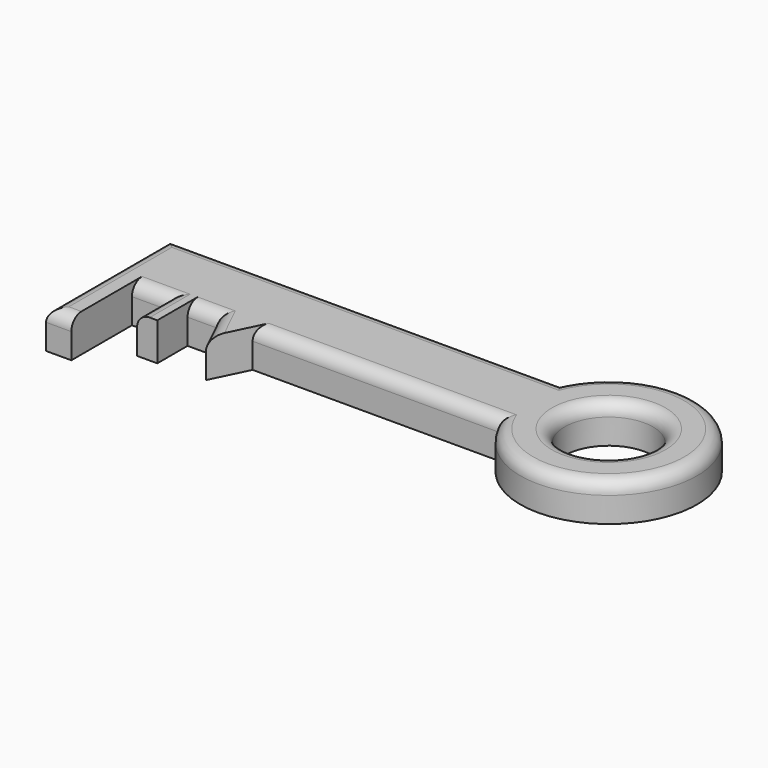
from build123d import *

# Parameters (mm, degrees)
F0_R     = 17.5
F0_W     = 10
F0_H     = 30
F0_W_2   = 8
F0_H_2   = 15
F1_DEPTH = 15
F2_R     = 5


with BuildPart() as f1:
    # F0 (on Top) → F1 (new body)
    with BuildSketch(Plane.XY):
        with BuildLine():
            Line((0, 30.9548118476), (-155, 30.9548118476))
            Line((-155, 30.9548118476), (-155, 0))
            Line((-155, 0), (-145, 0))
            Line((-145, 0), (-130.978256464, 0))
            Line((-130.978256464, 0), (-122.978256464, 0))
            Line((-122.978256464, 0), (-111.2298741937, 0))
            Line((-111.2298741937, 0), (-97.2298741937, 0))
            Line((-97.2298741937, 0), (0, 0))
            ThreePointArc((0, 0), (66.3918764312, 15.4774059238), (0, 30.9548118476))
        make_face()
        with Locations((31.3918764312, 15.4774059238)):
            Circle(F0_R, mode=Mode.SUBTRACT)
        with Locations((-150, -15)):
            Rectangle(F0_W, F0_H)
        with Locations((-126.978256464, -7.5)):
            Rectangle(F0_W_2, F0_H_2)
        Polygon((-104.2298741937, -14.3756624311), (-97.2298741937, 0), (-111.2298741937, 0), align=None)
    extrude(amount=F1_DEPTH)

    # F2
    f2_edges = [f1.edges().sort_by_distance(p)[0] for p in [
        (-150, -30, 15),
        (-155, 0.477406, 15),
        (-137.989128, 0, 15),
        (-130.978256, -7.5, 15),
        (-107.729874, -7.187831, 15),
        (-117.104065, 0, 15),
        (-48.614937, 0, 15),
        (-77.5, 30.954812, 15),
        (66.391876, 15.477406, 15),
        (13.891876, 15.477406, 15),
    ]]
    fillet(f2_edges, radius=F2_R)


solid = f1.part
